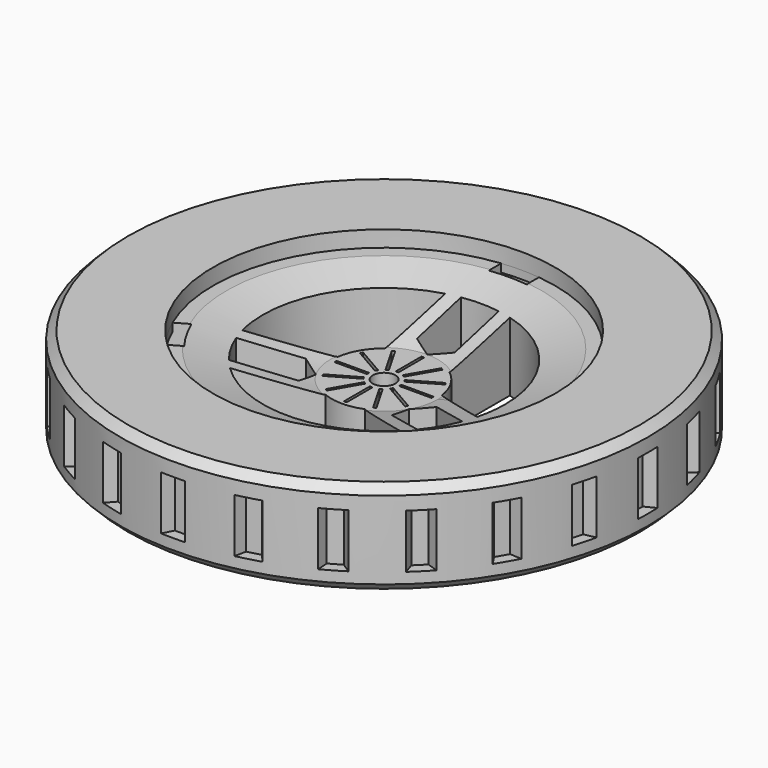
from build123d import *

# Parameters (mm, degrees)
SKETCH_R              = 98
SKETCH_R_2            = 4.2
PAD_DEPTH             = 35
POCKET_DEPTH          = 558.774657
POCKET_DEPTH_BACK     = 593.774657
POCKET001_DEPTH       = 558.774657
POCKET001_DEPTH_BACK  = 593.774657
POLARPATTERN_COUNT    = 3
POLARPATTERN001_COUNT = 3
POCKET003_DEPTH       = 558.774657
POCKET003_DEPTH_BACK  = 593.774657
POLARPATTERN003_COUNT = 3
SKETCH005_W           = 14
SKETCH005_H           = 6
POCKET004_DEPTH       = 100
POCKET004_DEPTH_BACK  = 9
POLARPATTERN004_COUNT = 3
POCKET002_DEPTH       = 10
POLARPATTERN002_COUNT = 24
SKETCH006_W           = 1
SKETCH006_H           = 12
POCKET005_DEPTH       = 558.774657
POCKET005_DEPTH_BACK  = 593.774657
POLARPATTERN005_COUNT = 12
CHAMFER_SIZE          = 3
CHAMFER001_SIZE       = 1


with BuildPart() as part:
    # Sketch → Pad (new body)
    with BuildSketch(Plane.XY):
        Circle(SKETCH_R)
        Circle(SKETCH_R_2, mode=Mode.SUBTRACT)
    extrude(amount=PAD_DEPTH)

    # Sketch001 → Pocket (cut, two sides)
    with BuildSketch(Plane.XY) as pocket_sk:
        with BuildLine():
            Line((-7, 44.452222), (-7, 24))
            Line((-7, 24), (0, 20))
            Line((0, 20), (7, 24))
            Line((7, 24), (7, 44.452222))
            ThreePointArc((7, 44.452222), (0, 45), (-7, 44.452222))
        make_face()
    pocket = extrude(amount=-POCKET_DEPTH, mode=Mode.SUBTRACT) + extrude(pocket_sk.sketch, amount=POCKET_DEPTH_BACK, mode=Mode.SUBTRACT)

    # CopySketch002 → Pocket001 (cut, two sides)
    with BuildSketch(Plane.XY) as pocket001_sk:
        with BuildLine():
            Line((19.31118, 2.707092), (43.559952, -11.292944))
            ThreePointArc((43.559952, -11.292944), (38.971143, 22.5), (12, 43.370497))
            Line((12, 15.370426), (12, 43.370497))
            ThreePointArc((19.31118, 2.707092), (16.887495, 9.75), (12, 15.370426))
        make_face()
    pocket001 = extrude(amount=-POCKET001_DEPTH, mode=Mode.SUBTRACT) + extrude(pocket001_sk.sketch, amount=POCKET001_DEPTH_BACK, mode=Mode.SUBTRACT)

    # PolarPattern: Pocket001 ×3 about axis
    polarpattern_axis = Axis((0, 0, 0), (0, 0, 1))
    for i in range(1, POLARPATTERN_COUNT):
        add(pocket001.rotate(polarpattern_axis, i * 360 / POLARPATTERN_COUNT), mode=Mode.SUBTRACT)

    # PolarPattern001: Pocket ×3 about axis
    polarpattern001_axis = Axis((0, 0, 0), (0, 0, 1))
    for i in range(1, POLARPATTERN001_COUNT):
        add(pocket.rotate(polarpattern001_axis, i * 360 / POLARPATTERN001_COUNT), mode=Mode.SUBTRACT)

    # Sketch002 → Groove (revolve, cut)
    with BuildSketch(Plane.XZ):
        Polygon((0, 35), (63.5, 35), (63.5, 29), (58.5, 29), (20, 19), (0, 19), align=None)
    revolve(axis=Axis((0, 0, 0), (0, 0, 1)), mode=Mode.SUBTRACT)

    # Sketch004 → Pocket003 (cut, two sides)
    with BuildSketch(Plane.XY) as pocket003_sk:
        with BuildLine():
            Line((-7, 57.576037), (-7, 63.112994))
            ThreePointArc((7, 63.112994), (0, 63.5), (-7, 63.112994))
            Line((7, 57.576037), (7, 63.112994))
            ThreePointArc((7, 57.576037), (0, 58), (-7, 57.576037))
        make_face()
    pocket003 = extrude(amount=-POCKET003_DEPTH, mode=Mode.SUBTRACT) + extrude(pocket003_sk.sketch, amount=POCKET003_DEPTH_BACK, mode=Mode.SUBTRACT)

    # PolarPattern003: Pocket003 ×3 about axis
    polarpattern003_axis = Axis((0, 0, 0), (0, 0, 1))
    for i in range(1, POLARPATTERN003_COUNT):
        add(pocket003.rotate(polarpattern003_axis, i * 360 / POLARPATTERN003_COUNT), mode=Mode.SUBTRACT)

    # Sketch005 (on DatumPlane) → Pocket004 (cut, two sides)
    with BuildSketch(Plane.XY.offset(17)) as pocket004_sk:
        with Locations((0, 65)):
            Rectangle(SKETCH005_W, SKETCH005_H)
    pocket004 = extrude(amount=-POCKET004_DEPTH, mode=Mode.SUBTRACT) + extrude(pocket004_sk.sketch, amount=POCKET004_DEPTH_BACK, mode=Mode.SUBTRACT)

    # PolarPattern004: Pocket004 ×3 about axis
    polarpattern004_axis = Axis((0, 0, 17), (0, 0, 1))
    for i in range(1, POLARPATTERN004_COUNT):
        add(pocket004.rotate(polarpattern004_axis, i * 360 / POLARPATTERN004_COUNT), mode=Mode.SUBTRACT)

    # Sketch003 (on DatumPlane) → Pocket002 (cut, symmetric)
    with BuildSketch(Plane.XY.offset(17)):
        Polygon((-5, 99), (5, 99), (2.5, 94), (-2.5, 94), align=None)
    pocket002 = extrude(amount=POCKET002_DEPTH, both=True, mode=Mode.SUBTRACT)

    # PolarPattern002: Pocket002 ×24 about axis
    polarpattern002_axis = Axis((0, 0, 17), (0, 0, 1))
    for i in range(1, POLARPATTERN002_COUNT):
        add(pocket002.rotate(polarpattern002_axis, i * 360 / POLARPATTERN002_COUNT), mode=Mode.SUBTRACT)

    # Sketch006 → Pocket005 (cut, two sides)
    with BuildSketch(Plane.XY) as pocket005_sk:
        with Locations((0, 12)):
            Rectangle(SKETCH006_W, SKETCH006_H)
    pocket005 = extrude(amount=-POCKET005_DEPTH, mode=Mode.SUBTRACT) + extrude(pocket005_sk.sketch, amount=POCKET005_DEPTH_BACK, mode=Mode.SUBTRACT)

    # PolarPattern005: Pocket005 ×12 about axis
    polarpattern005_axis = Axis((0, 0, 0), (0, 0, 1))
    for i in range(1, POLARPATTERN005_COUNT):
        add(pocket005.rotate(polarpattern005_axis, i * 360 / POLARPATTERN005_COUNT), mode=Mode.SUBTRACT)

    # Chamfer
    chamfer_edges = [part.edges().sort_by_distance(p)[0] for p in [
        (-98, 0, 35),
        (-98, 0, 0),
    ]]
    chamfer(chamfer_edges, length=CHAMFER_SIZE)

    # Chamfer001
    chamfer001_edges = [part.edges().sort_by_distance(p)[0] for p in [
        (-4.2, 0, 0),
    ]]
    chamfer(chamfer001_edges, length=CHAMFER001_SIZE)


solid = part.part
